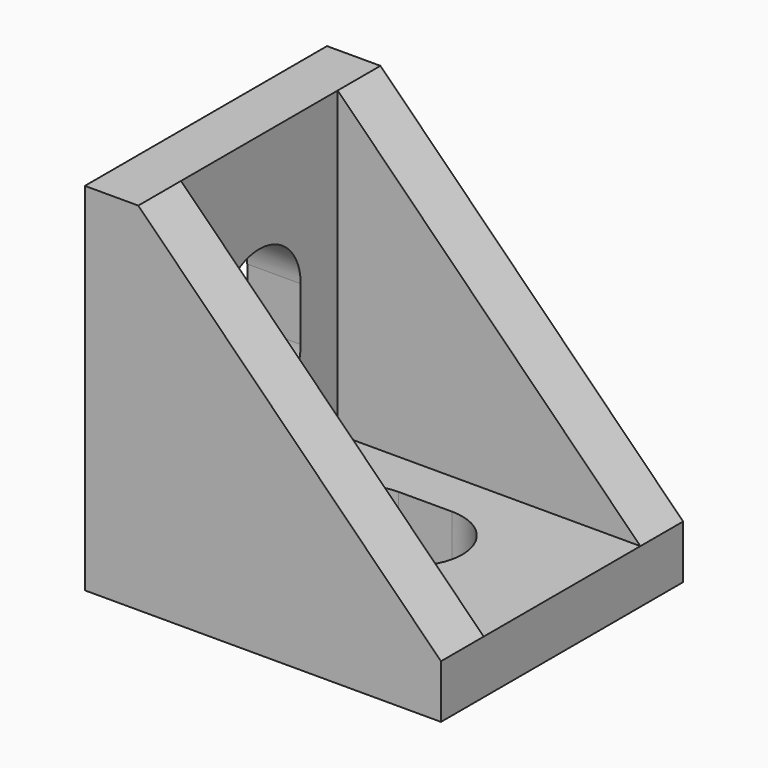
from build123d import *

# Parameters (mm, degrees)
PAD_DEPTH          = 8.5
POCKET_DEPTH       = 3
POCKET001_DEPTH    = 3
SKETCH003_W        = 17
SKETCH003_H        = 11
POCKET002_DEPTH    = 17.001
SKETCH004_W        = 1.5
SKETCH004_H        = 4
PAD001_DEPTH       = 1
POLARPATTERN_COUNT = 2
POLARPATTERN_ANGLE = 90
CHAMFER_SIZE       = 0.25


with BuildPart() as part:
    # Sketch → Pad (new body, symmetric)
    with BuildSketch(Plane.XZ):
        Polygon((-10, 10), (-10, -10), (10, -10), (10, -7), (-7, 10), align=None)
    extrude(amount=PAD_DEPTH, both=True)

    # Sketch001 (on Face1 of Pad) → Pocket (cut)
    with BuildSketch(Plane(origin=(-10, 0, 0), x_dir=(0, 0, -1), z_dir=(-1, 0, 0))):
        with BuildLine():
            ThreePointArc((-1.5, 2.9), (-4.4, 0), (-1.5, -2.9))
            Line((-1.5, -2.9), (1.5, -2.9))
            ThreePointArc((1.5, -2.9), (4.4, 0), (1.5, 2.9))
            Line((1.5, 2.9), (-1.5, 2.9))
        make_face()
    extrude(amount=-POCKET_DEPTH, mode=Mode.SUBTRACT)

    # Sketch002 (on Face5 of Pocket) → Pocket001 (cut)
    with BuildSketch(Plane(origin=(0, 0, -10), x_dir=(1, 0, 0), z_dir=(0, 0, -1))):
        with BuildLine():
            ThreePointArc((-1.5, 2.9), (-4.4, 0), (-1.5, -2.9))
            Line((-1.5, -2.9), (1.5, -2.9))
            ThreePointArc((1.5, -2.9), (4.4, 0), (1.5, 2.9))
            Line((1.5, 2.9), (-1.5, 2.9))
        make_face()
    extrude(amount=-POCKET001_DEPTH, mode=Mode.SUBTRACT)

    # Sketch003 (on Face17 of Pocket001) → Pocket002 (cut, through all)
    with BuildSketch(Plane(origin=(0, 0, -7), x_dir=(1, 0, 0), z_dir=(0, 0, -1))):
        with Locations((1.5, 0)):
            Rectangle(SKETCH003_W, SKETCH003_H)
    extrude(amount=-POCKET002_DEPTH, mode=Mode.SUBTRACT)

    # Sketch004 (on Face1 of Pocket002) → Pad001 (join)
    with BuildSketch(Plane(origin=(-10, 0, 0), x_dir=(0, 0, -1), z_dir=(-1, 0, 0))):
        with Locations((-7.75, 0)):
            Rectangle(SKETCH004_W, SKETCH004_H)
        with Locations((7.75, 0)):
            Rectangle(SKETCH004_W, SKETCH004_H)
    pad001 = extrude(amount=PAD001_DEPTH)

    # PolarPattern: Pad001 ×2 about axis
    polarpattern_axis = Axis((0, 0, 0), (0, -1, 0))
    for i in range(1, POLARPATTERN_COUNT):
        add(pad001.rotate(polarpattern_axis, i * POLARPATTERN_ANGLE / (POLARPATTERN_COUNT - 1)))

    # Chamfer
    chamfer_edges = [part.edges().sort_by_distance(p)[0] for p in [
        (-11, 0, 8.5),
        (-11, 0, 7),
        (-11, 0, -7),
        (-11, 0, -8.5),
        (-8.5, 0, -11),
        (-7, 0, -11),
        (7, 0, -11),
        (8.5, 0, -11),
    ]]
    chamfer(chamfer_edges, length=CHAMFER_SIZE)


solid = part.part
